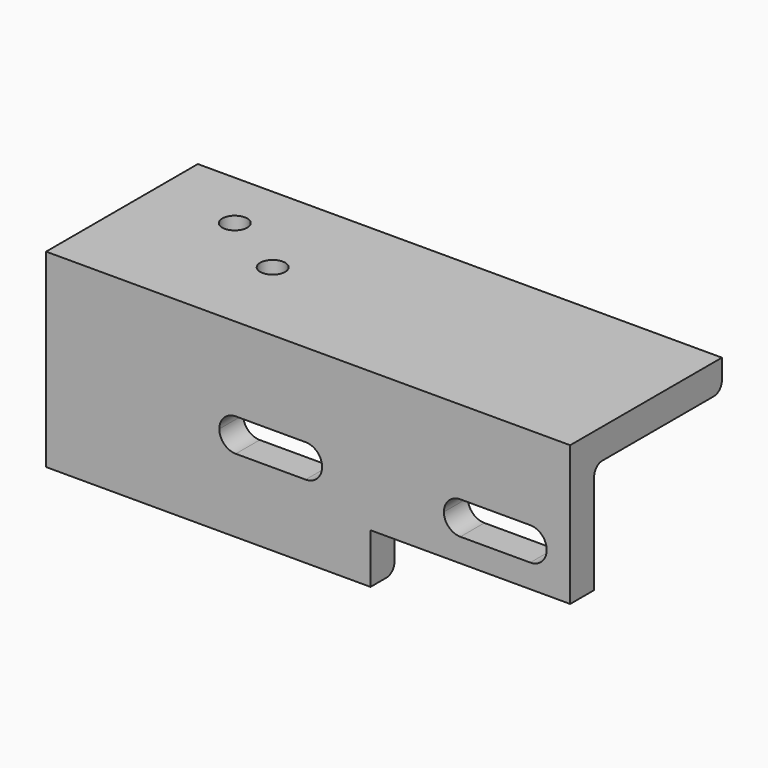
from build123d import *

# Parameters (mm, degrees)
F1_DEPTH = 105
F2_W     = 40
F2_H     = 10
F3_DEPTH = 25
F5_DEPTH = 25
F7_D     = 5
F8_R     = 2
F9_R     = 2


with BuildPart() as f1:
    # F0 (on Right) → F1 (new body)
    with BuildSketch(Plane.YZ):
        Polygon((0, 38), (0, 0), (6, 0), (6, 32), (38, 32), (38, 38), align=None)
    extrude(amount=F1_DEPTH)

    # F2 (on face) → F3 (cut)
    with BuildSketch(Plane.XZ):
        with Locations((85, 5)):
            Rectangle(F2_W, F2_H)
    extrude(amount=-F3_DEPTH, mode=Mode.SUBTRACT)

    # F4 (on face) → F5 (cut)
    with BuildSketch(Plane(origin=(0, 6, 0), x_dir=(-1, 0, 0), z_dir=(0, 1, 0))):
        with BuildLine():
            ThreePointArc((-97, 14.7), (-94.6665476221, 15.6665476221), (-93.7, 18))
            ThreePointArc((-93.7, 18), (-94.6665476221, 20.3334523779), (-97, 21.3))
            ThreePointArc((-97, 21.3), (-100.3, 18), (-97, 14.7))
        make_face()
        with BuildLine():
            ThreePointArc((-97, 21.3), (-94.6665476221, 20.3334523779), (-93.7, 18))
            ThreePointArc((-93.7, 18), (-94.6665476221, 15.6665476221), (-97, 14.7))
            Line((-97, 14.7), (-83, 14.7))
            ThreePointArc((-83, 14.7), (-86.3, 18), (-83, 21.3))
            Line((-83, 21.3), (-97, 21.3))
        make_face()
        with BuildLine():
            Line((-83, 14.7), (-83, 21.3))
            ThreePointArc((-83, 21.3), (-86.3, 18), (-83, 14.7))
        make_face()
        with BuildLine():
            ThreePointArc((-79.7, 18), (-80.6665476221, 20.3334523779), (-83, 21.3))
            Line((-83, 21.3), (-83, 14.7))
            ThreePointArc((-83, 14.7), (-80.6665476221, 15.6665476221), (-79.7, 18))
        make_face()
        with BuildLine():
            ThreePointArc((-52, 14.7), (-49.6665476221, 15.6665476221), (-48.7, 18))
            ThreePointArc((-48.7, 18), (-49.6665476221, 20.3334523779), (-52, 21.3))
            ThreePointArc((-52, 21.3), (-55.3, 18), (-52, 14.7))
        make_face()
        with BuildLine():
            ThreePointArc((-52, 21.3), (-49.6665476221, 20.3334523779), (-48.7, 18))
            ThreePointArc((-48.7, 18), (-49.6665476221, 15.6665476221), (-52, 14.7))
            Line((-52, 14.7), (-38, 14.7))
            ThreePointArc((-38, 14.7), (-41.3, 18), (-38, 21.3))
            Line((-38, 21.3), (-52, 21.3))
        make_face()
        with BuildLine():
            Line((-38, 14.7), (-38, 21.3))
            ThreePointArc((-38, 21.3), (-41.3, 18), (-38, 14.7))
        make_face()
        with BuildLine():
            ThreePointArc((-34.7, 18), (-35.6665476221, 20.3334523779), (-38, 21.3))
            Line((-38, 21.3), (-38, 14.7))
            ThreePointArc((-38, 14.7), (-35.6665476221, 15.6665476221), (-34.7, 18))
        make_face()
    extrude(amount=-F5_DEPTH, mode=Mode.SUBTRACT)

    # F7 (through all)
    with Locations(Plane.XY.offset(38)):
        with Locations((31, 18), (17, 26)):
            Hole(F7_D / 2)

    # F8
    f8_edges = [f1.edges().sort_by_distance(p)[0] for p in [
        (52.5, 38, 32),
        (32.5, 6, 0),
    ]]
    fillet(f8_edges, radius=F8_R)

    # F9
    f9_edges = [f1.edges().sort_by_distance(p)[0] for p in [
        (52.5, 6, 32),
    ]]
    fillet(f9_edges, radius=F9_R)


solid = f1.part
